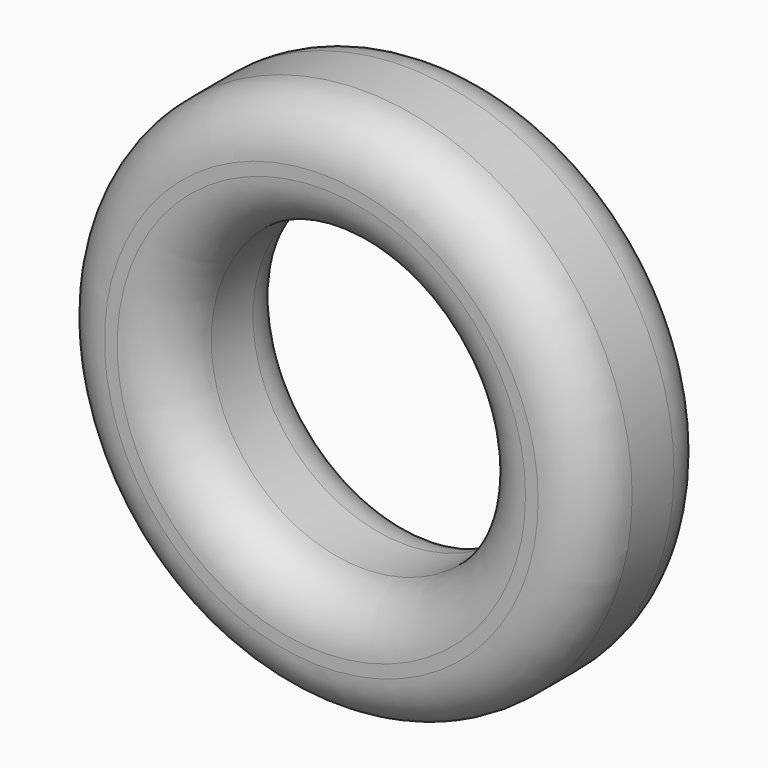
from build123d import *

# Parameters (mm, degrees)
F0_R     = 1308.9647443453
F0_R_2   = 739.5286574093
F1_DEPTH = 762
F2_R     = 254
F3_R     = 254
F4_R     = 254
F5_DEPTH = 25.4


with BuildPart() as f1:
    # F0 (on Front) → F1 (new body)
    with BuildSketch(Plane.XZ):
        with Locations((-20.1464034617, 0)):
            Circle(F0_R)
        with Locations((-20.1464034617, 0)):
            Circle(F0_R_2, mode=Mode.SUBTRACT)
    extrude(amount=F1_DEPTH)

    # F2
    f2_edges = [f1.edges().sort_by_distance(p)[0] for p in [
        (-1329.111148, 0, 0),
    ]]
    fillet(f2_edges, radius=F2_R)

    # F3
    f3_edges = [f1.edges().sort_by_distance(p)[0] for p in [
        (-1329.111148, -762, 0),
        (-759.675061, -762, 0),
    ]]
    fillet(f3_edges, radius=F3_R)

    # F4
    f4_edges = [f1.edges().sort_by_distance(p)[0] for p in [
        (719.382254, -254, 0),
        (-759.675061, -508, 0),
        (-759.675061, 0, 0),
        (-1075.111148, -762, 0),
        (-1013.675061, -762, 0),
        (1288.818341, -381, 0),
        (-1329.111148, -508, 0),
        (-1329.111148, -254, 0),
    ]]
    fillet(f4_edges, radius=F4_R)


with BuildPart() as f5:
    # F5 (new): a face of the model
    f5_faces = [f1.part.faces().sort_by_distance(p)[0] for p in [
        (-1043.5139698566, 0, 0),
    ]]
    extrude(f5_faces, amount=F5_DEPTH)


solid = Compound([f1.part, f5.part])
